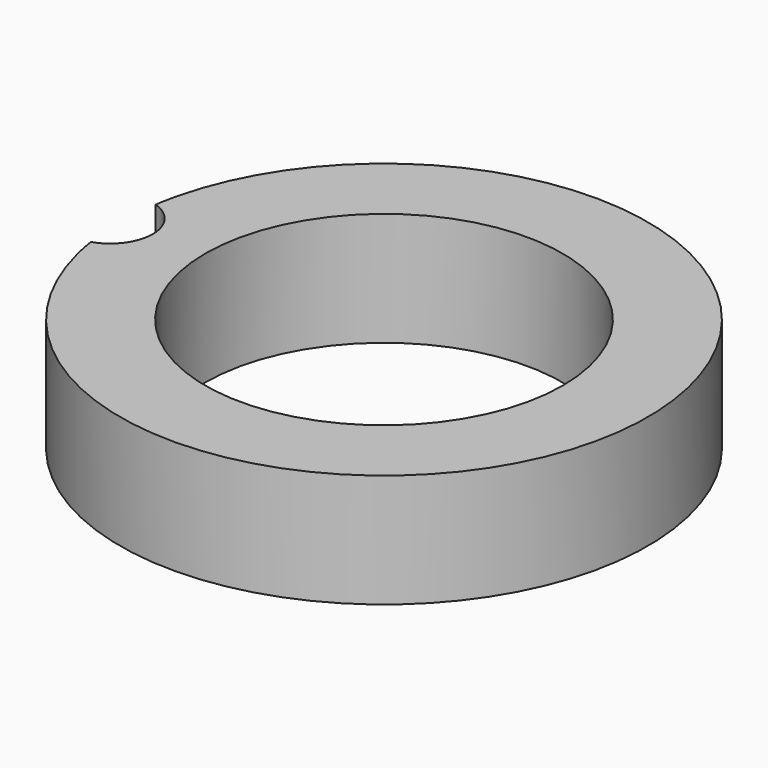
from build123d import *

# Parameters (mm, degrees)
F0_R     = 31.5
F1_DEPTH = 20


with BuildPart() as f1:
    # F0 (on Top) → F1 (new body)
    with BuildSketch(Plane.XY):
        with BuildLine():
            ThreePointArc((-36.75, 0), (-39.0911135624, 6.9544805142), (-45.1612694301, 11.0774430022))
            ThreePointArc((-45.1612694301, 11.0774430022), (-45.5976101671, 9.1163560183), (-45.9488341969, 7.1382516029))
            ThreePointArc((-45.9488341969, 7.1382516029), (-42.1874616074, 4.4153854009), (-40.75, 0))
            ThreePointArc((-40.75, 0), (-42.1874616074, -4.4153854009), (-45.9488341969, -7.1382516029))
            ThreePointArc((-45.9488341969, -7.1382516029), (-45.5976101671, -9.1163560183), (-45.1612694301, -11.0774430022))
            ThreePointArc((-45.1612694301, -11.0774430022), (-39.0911135624, -6.9544805142), (-36.75, 0))
        make_face()
        with BuildLine():
            ThreePointArc((-45.1612694301, -11.0774430022), (5.579021935, -46.1641041747), (46.5, 0))
            ThreePointArc((46.5, 0), (5.579021935, 46.1641041747), (-45.1612694301, 11.0774430022))
            ThreePointArc((-45.1612694301, 11.0774430022), (-39.0911135624, 6.9544805142), (-36.75, 0))
            ThreePointArc((-36.75, 0), (-39.0911135624, -6.9544805142), (-45.1612694301, -11.0774430022))
        make_face()
        Circle(F0_R, mode=Mode.SUBTRACT)
    extrude(amount=F1_DEPTH)


solid = f1.part
